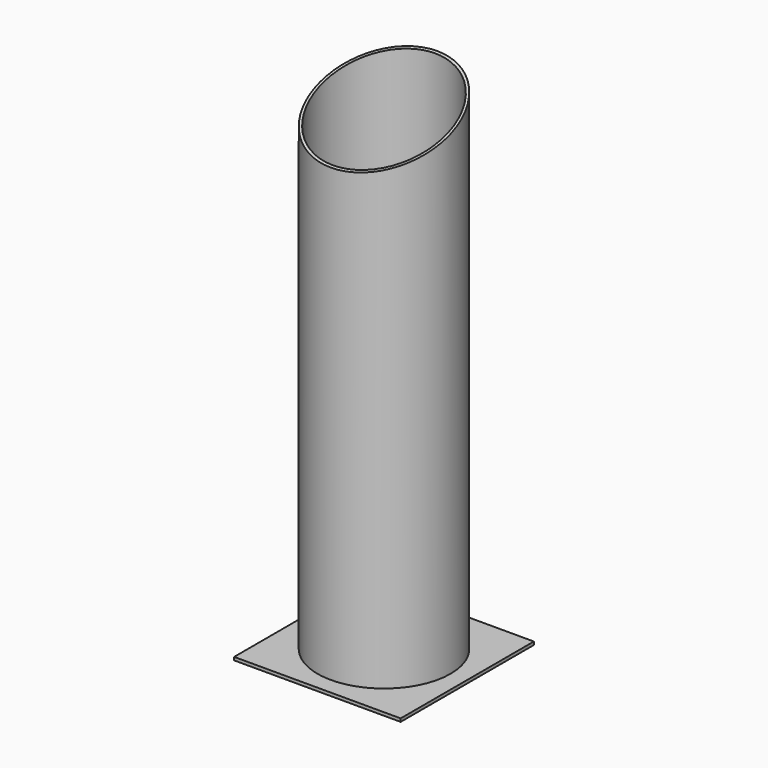
from build123d import *

# Parameters (mm, degrees)
F0_R          = 101.6
F0_R_2        = 97.536
F1_DEPTH      = 762
F2_W          = 254
F2_H          = 254
F3_DEPTH      = 4.7625
F5_DEPTH      = 127.001
F5_DEPTH_BACK = 127.001
F6_DEPTH      = 127.001
F6_DEPTH_BACK = 127.001


with BuildPart() as f1:
    # F0 (on Top) → F1 (new body)
    with BuildSketch(Plane.XY):
        Circle(F0_R)
        Circle(F0_R_2, mode=Mode.SUBTRACT)
    extrude(amount=F1_DEPTH)

    # F2 (on Top) → F3 (join)
    with BuildSketch(Plane.XY):
        Rectangle(F2_W, F2_H)
    extrude(amount=-F3_DEPTH)

    # F4 (on Right) → F5 (cut, two sides)
    with BuildSketch(Plane.YZ) as f5_sk:
        Polygon((-101.6, 688.041248), (101.6, 762), (-101.6, 762), align=None)
    extrude(amount=-F5_DEPTH, mode=Mode.SUBTRACT)
    extrude(f5_sk.sketch, amount=-F5_DEPTH_BACK, mode=Mode.SUBTRACT)

    # F4 (on Right) → F6 (cut, two sides)
    with BuildSketch(Plane.YZ) as f6_sk:
        Polygon((-101.6, 688.041248), (101.6, 762), (-101.6, 762), align=None)
    extrude(amount=F6_DEPTH, mode=Mode.SUBTRACT)
    extrude(f6_sk.sketch, amount=-F6_DEPTH_BACK, mode=Mode.SUBTRACT)


solid = f1.part
